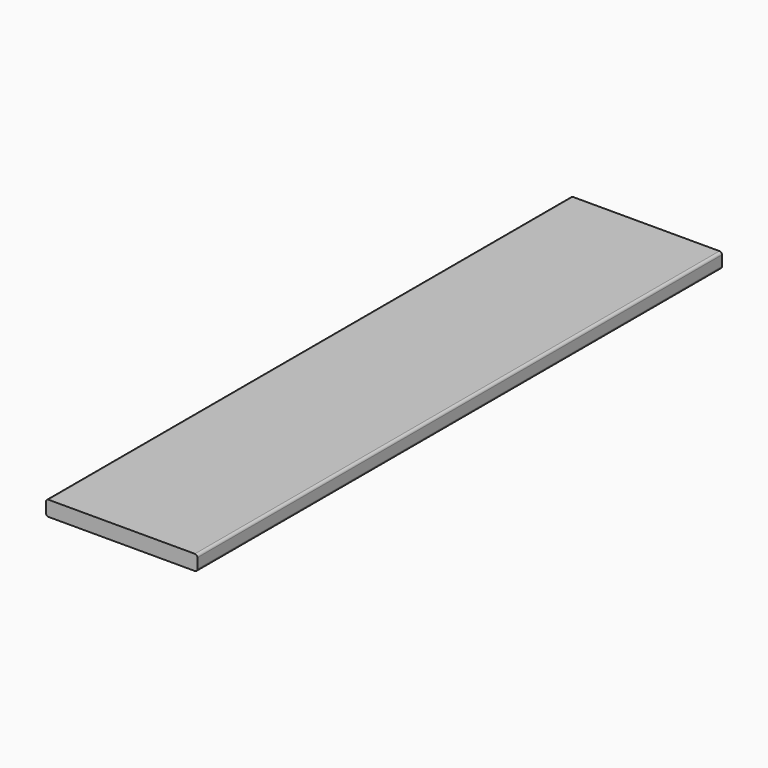
from build123d import *

# Parameters (mm, degrees)
F1_DEPTH = 66.04


with BuildPart() as f1:
    # F0 (on Front) → F1 (new body)
    with BuildSketch(Plane.XZ):
        with BuildLine():
            ThreePointArc((-7.366, 3.8735), (-7.545605, 3.799105), (-7.62, 3.6195))
            Line((-7.62, 3.6195), (-7.62, 2.6035))
            ThreePointArc((-7.62, 2.6035), (-7.545605, 2.423895), (-7.366, 2.3495))
            Line((-7.366, 2.3495), (0, 2.3495))
            Line((0, 2.3495), (7.366, 2.3495))
            ThreePointArc((7.366, 2.3495), (7.545605, 2.423895), (7.62, 2.6035))
            Line((7.62, 2.6035), (7.62, 3.6195))
            ThreePointArc((7.62, 3.6195), (7.545605, 3.799105), (7.366, 3.8735))
            Line((7.366, 3.8735), (0, 3.8735))
            Line((0, 3.8735), (-7.366, 3.8735))
        make_face()
    extrude(amount=F1_DEPTH)


solid = f1.part
